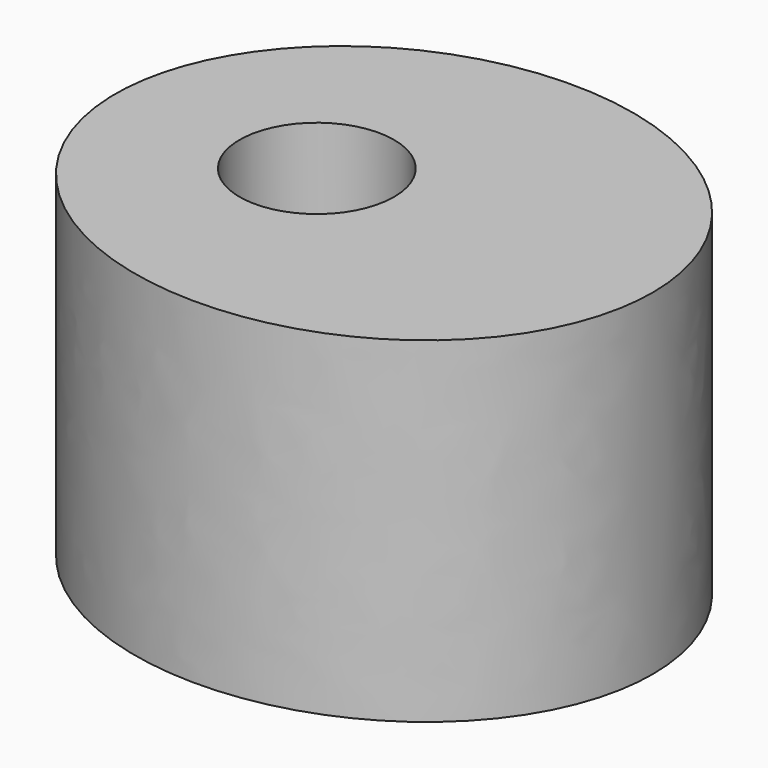
from build123d import *

# Parameters (mm, degrees)
F0_R     = 2.921
F1_DEPTH = 12.7


with BuildPart() as f1:
    # F0 (on Top) → F1 (new body)
    with BuildSketch(Plane.XY):
        with BuildLine():
            add(Edge.make_bspline(
                [(10.16, 0), (10.16, 15.397932), (-5.08, 7.698966), (-20.32, 0), (-5.08, -7.698966), (10.16, -15.397932), (10.16, 0)],
                knots=[0, 0, 0, 2.094395, 2.094395, 4.18879, 4.18879, 6.283185, 6.283185, 6.283185], degree=2, weights=[1, 0.5, 1, 0.5, 1, 0.5, 1]))
        make_face()
        with Locations((-2.54, 0)):
            Circle(F0_R, mode=Mode.SUBTRACT)
    extrude(amount=-F1_DEPTH)


solid = f1.part
